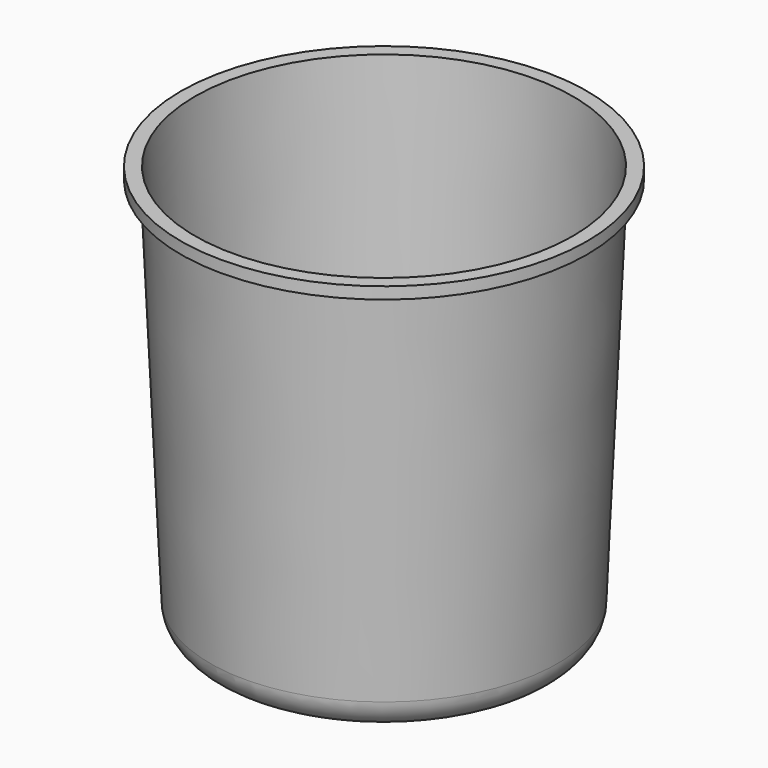
from build123d import *


with BuildPart() as f1:
    # F0 (on Front) → F1 (revolve)
    with BuildSketch(Plane.XZ):
        with BuildLine():
            Line((0, 0), (0, -10))
            Line((0, -10), (1.5, -10))
            Line((1.5, -10), (1.5, -1.5))
            Line((1.5, -1.5), (10.565193, -1.5))
            Line((10.565193, -1.5), (24.930311, -324.676756))
            ThreePointArc((24.930311, -324.676756), (33.086612, -342.649857), (51.404171, -350))
            Line((51.404171, -350), (173, -350))
            Line((173, -350), (173, -348.5))
            Line((173, -348.5), (51.404171, -348.5))
            ThreePointArc((51.404171, -348.5), (34.123455, -341.565903), (26.428832, -324.610147))
            Line((26.428832, -324.610147), (12, 0))
            Line((12, 0), (0, 0))
        make_face()
    revolve(axis=Axis((173, 0, -349.25), (0, 0, -1)))


solid = f1.part
